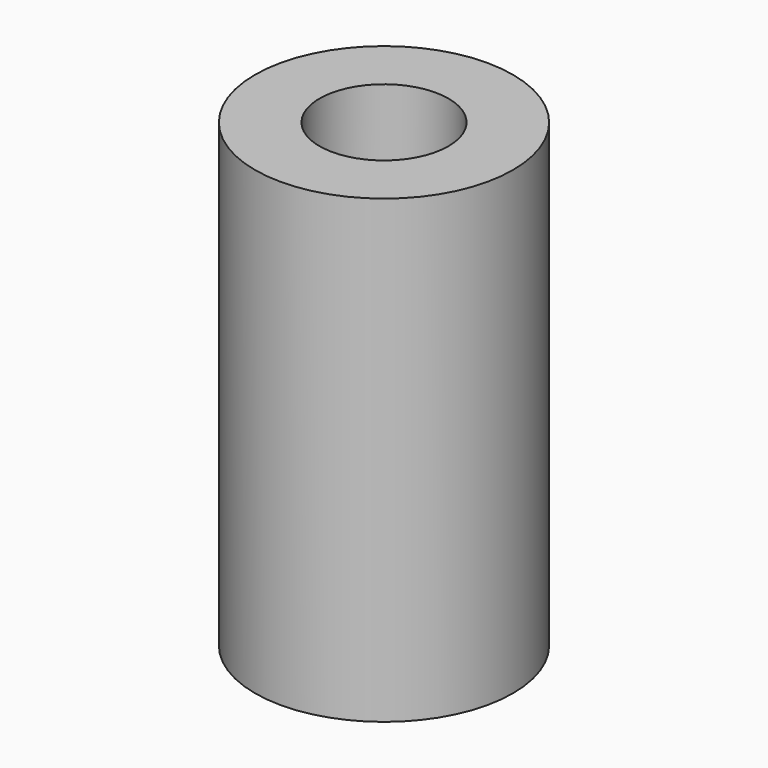
from build123d import *

# Parameters (mm, degrees)
F0_R     = 7
F0_R_2   = 3.5
F1_DEPTH = 25
F2_R     = 6
F3_DEPTH = 7.4


with BuildPart() as f1:
    # F0 (on Top) → F1 (new body)
    with BuildSketch(Plane.XY):
        with Locations((1.822969, 0)):
            Circle(F0_R)
        with Locations((1.822969, 0)):
            Circle(F0_R_2, mode=Mode.SUBTRACT)
    extrude(amount=F1_DEPTH)

    # F2 (on face) → F3 (cut)
    with BuildSketch(Plane(origin=(0, 0, 0), x_dir=(1, 0, 0), z_dir=(0, 0, -1))):
        with Locations((1.822969, 0)):
            Circle(F2_R)
    extrude(amount=-F3_DEPTH, mode=Mode.SUBTRACT)


solid = f1.part
